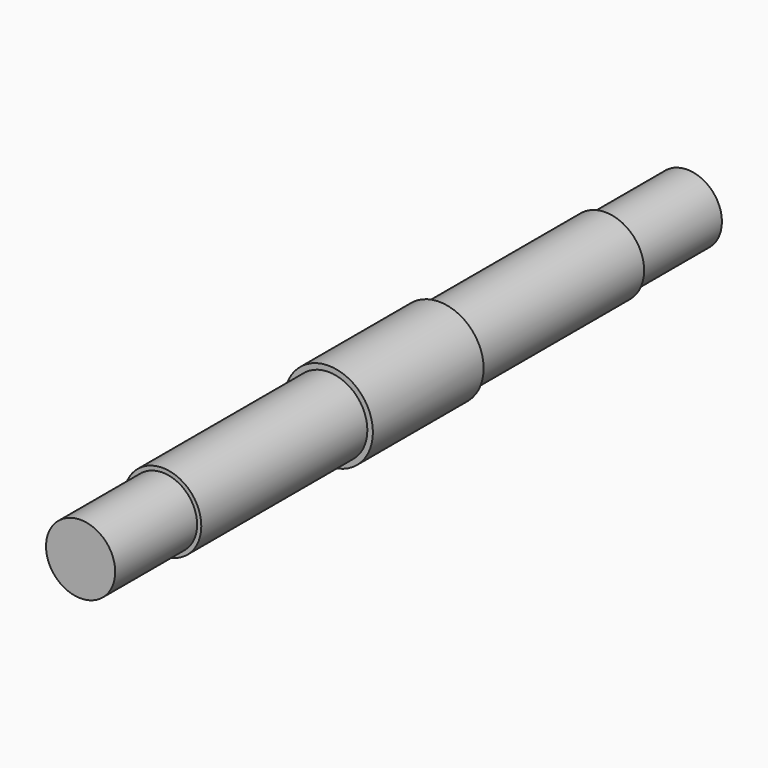
from build123d import *

# Parameters (mm, degrees)
F0_R     = 12.5
F1_DEPTH = 137
F0_R_2   = 14
F2_DEPTH = 100
F0_R_3   = 16
F3_DEPTH = 25


with BuildPart() as f1:
    # F0 (on Front) → F1 (new body, symmetric)
    with BuildSketch(Plane.XZ):
        Circle(F0_R)
    extrude(amount=F1_DEPTH, both=True)

    # F0 (on Front) → F2 (join, symmetric)
    with BuildSketch(Plane.XZ):
        Circle(F0_R_2)
        Circle(F0_R, mode=Mode.SUBTRACT)
    extrude(amount=F2_DEPTH, both=True)

    # F0 (on Front) → F3 (join, symmetric)
    with BuildSketch(Plane.XZ):
        Circle(F0_R_3)
        Circle(F0_R_2, mode=Mode.SUBTRACT)
    extrude(amount=F3_DEPTH, both=True)


solid = f1.part
